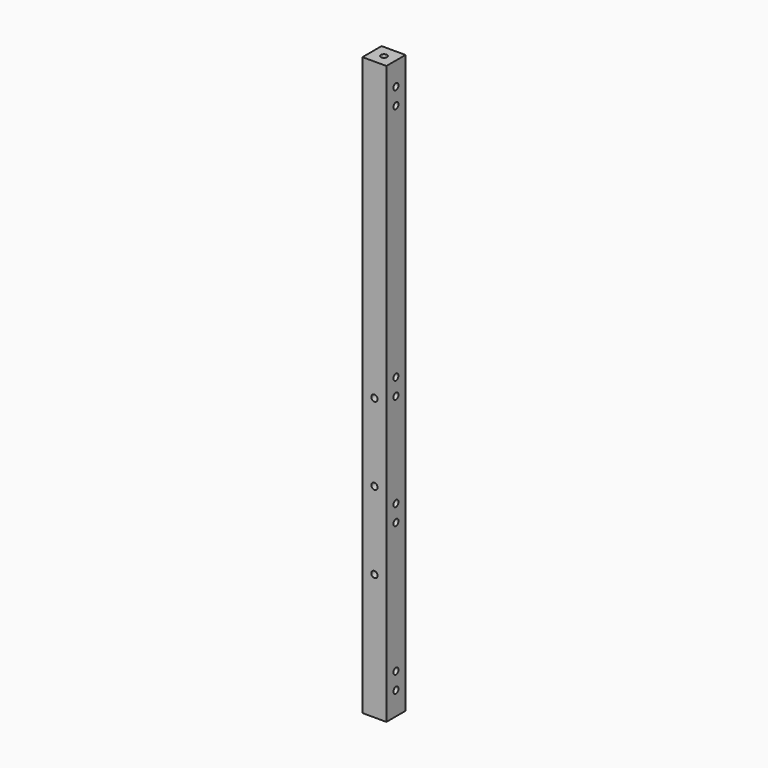
from build123d import *

# Parameters (mm, degrees)
SKETCH_W        = 11.4
SKETCH_H        = 11.4
SKETCH_R        = 1.5
PAD_DEPTH       = 275.2
SKETCH001_R     = 1.5
POCKET_DEPTH    = 11.401
SKETCH002_R     = 1.5
POCKET001_DEPTH = 11.401


with BuildPart() as part:
    # Sketch → Pad (new body)
    with BuildSketch(Plane.XY):
        with Locations((5.7, 5.7)):
            Rectangle(SKETCH_W, SKETCH_H)
        with Locations((5.7, 5.7)):
            Circle(SKETCH_R, mode=Mode.SUBTRACT)
    extrude(amount=PAD_DEPTH)

    # Sketch001 → Pocket (cut, through all)
    with BuildSketch(Plane.YZ.offset(11.4)):
        with Locations((5.7, 142.35)):
            Circle(SKETCH001_R)
        with Locations((5.7, 134.35)):
            Circle(SKETCH001_R)
        with Locations((5.7, 19)):
            Circle(SKETCH001_R)
        with Locations((5.7, 11)):
            Circle(SKETCH001_R)
        with Locations((5.7, 89.35)):
            Circle(SKETCH001_R)
        with Locations((5.7, 81.35)):
            Circle(SKETCH001_R)
        with Locations((5.7, 264.2)):
            Circle(SKETCH001_R)
        with Locations((5.7, 256.2)):
            Circle(SKETCH001_R)
    extrude(amount=-POCKET_DEPTH, mode=Mode.SUBTRACT)

    # Sketch002 → Pocket001 (cut, through all)
    with BuildSketch(Plane(origin=(0, 11.4, 0), x_dir=(-1, 0, 0), z_dir=(0, 1, 0))):
        with Locations((-5.7, 60)):
            Circle(SKETCH002_R)
        with Locations((-5.7, 97)):
            Circle(SKETCH002_R)
        with Locations((-5.7, 134)):
            Circle(SKETCH002_R)
    extrude(amount=-POCKET001_DEPTH, mode=Mode.SUBTRACT)


solid = part.part
